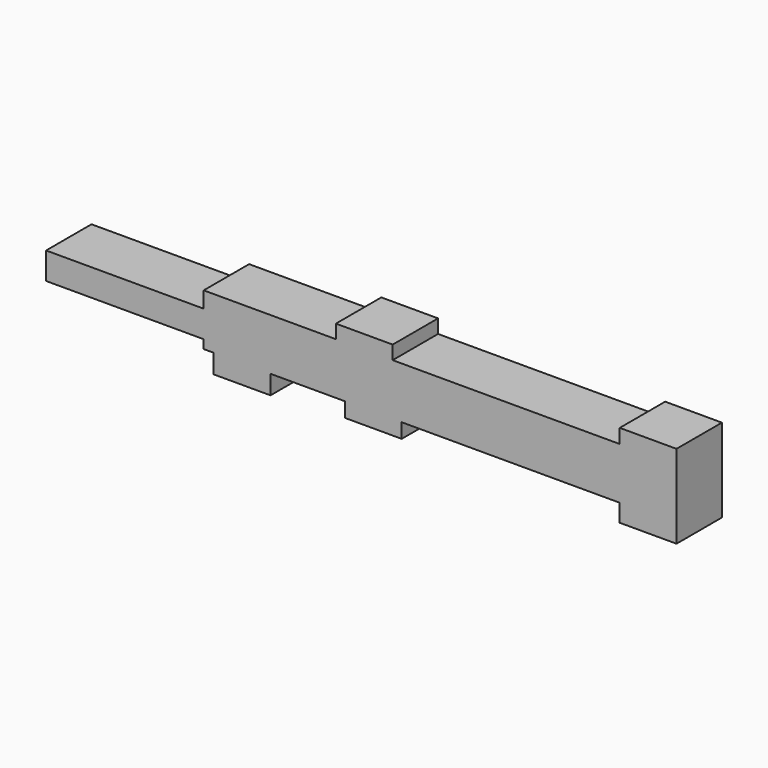
from build123d import *

# Parameters (mm, degrees)
F0_W     = 25.4
F0_H     = 6.135838
F0_H_2   = 8.51089
F0_H_3   = 6.558549
F1_DEPTH = 25.4


with BuildPart() as f1:
    # F0 (on Front) → F1 (new body)
    with BuildSketch(Plane.XZ):
        Polygon((0, 34.30898), (-59.153413, 34.30898), (-59.153413, 27.082892), (-59.153413, 15.05862), (-59.153413, 11.173423), (-54.658122, 11.173423), (-29.258122, 11.173423), (4.035674, 11.173423), (29.435674, 11.173423), (84.918008, 11.173423), (84.918008, 34.30898), (25.4, 34.30898), align=None)
        with Locations((12.7, 37.376899)):
            Rectangle(F0_W, F0_H)
        Polygon((-59.153413, 15.05862), (-59.153413, 27.082892), (-129.672574, 27.082892), (-129.672574, 22.232148), (-129.672574, 15.05862), align=None)
        Polygon((127, 34.30898), (84.918008, 34.30898), (84.918008, 11.173423), (127, 11.173423), (127, 3.2947), (152.4, 3.2947), (152.4, 11.173423), (152.4, 34.30898), (152.4, 40.679562), (127, 40.679562), align=None)
        with Locations((-41.958122, 6.917978)):
            Rectangle(F0_W, F0_H_2)
        with Locations((16.735674, 7.894149)):
            Rectangle(F0_W, F0_H_3)
    extrude(amount=F1_DEPTH)


solid = f1.part
